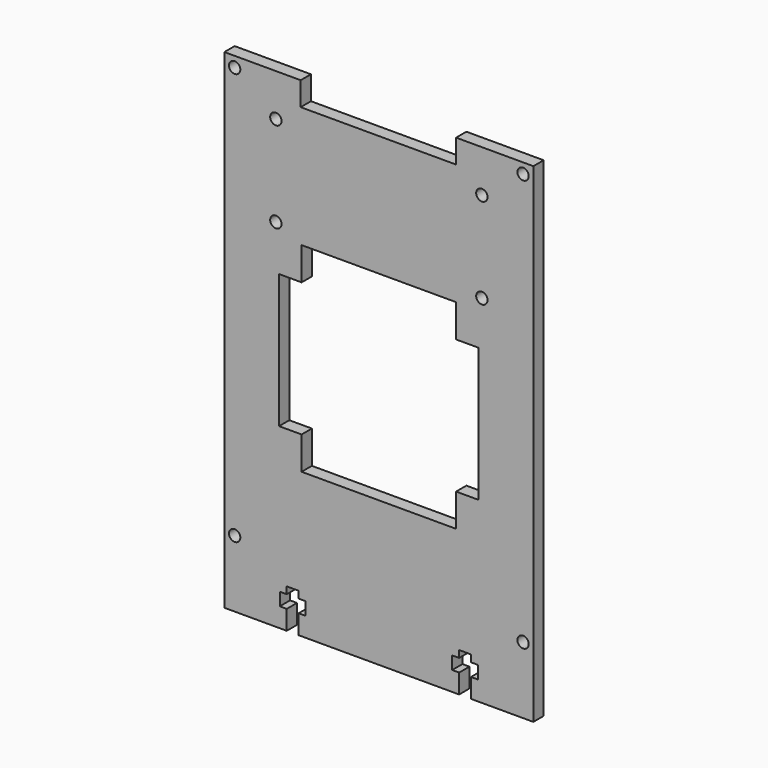
from build123d import *

# Parameters (mm, degrees)
F0_R     = 1.397
F1_DEPTH = 3.175


with BuildPart() as f1:
    # F0 (on Front) → F1 (new body)
    with BuildSketch(Plane.XZ):
        Polygon((38.1, 38.735), (38.1, 60.325), (19.05, 60.325), (19.05, 54.476305), (-19.277798, 54.476305), (-19.277798, 60.325), (-38.1, 60.325), (-38.1, -60.325), (-22.7203, -60.325), (-22.7203, -55.5625), (-24.4348, -55.5625), (-24.4348, -52.3875), (-22.7203, -52.3875), (-22.7203, -50.673), (-19.7993, -50.673), (-19.7993, -52.3875), (-18.0848, -52.3875), (-18.0848, -55.5625), (-19.7993, -55.5625), (-19.7993, -60.325), (19.7993, -60.325), (19.7993, -55.5625), (18.0848, -55.5625), (18.0848, -52.3875), (19.7993, -52.3875), (19.7993, -50.673), (22.7203, -50.673), (22.7203, -52.3875), (24.4348, -52.3875), (24.4348, -55.5625), (22.7203, -55.5625), (22.7203, -60.325), (38.1, -60.325), align=None)
        with Locations((-35.56, -43.815)):
            Circle(F0_R, mode=Mode.SUBTRACT)
        with Locations((35.56, -43.815)):
            Circle(F0_R, mode=Mode.SUBTRACT)
        with Locations((-25.4, 27.559)):
            Circle(F0_R, mode=Mode.SUBTRACT)
        with Locations((-35.56, 57.785)):
            Circle(F0_R, mode=Mode.SUBTRACT)
        with Locations((-25.4, 49.911)):
            Circle(F0_R, mode=Mode.SUBTRACT)
        Polygon((-19.05, 24.60625), (19.05, 24.60625), (19.05, 16.51), (24.60625, 16.51), (24.60625, -16.51), (19.05, -16.51), (19.05, -24.60625), (-19.05, -24.60625), (-19.05, -16.51), (-24.60625, -16.51), (-24.60625, 16.51), (-19.05, 16.51), align=None, mode=Mode.SUBTRACT)
        with Locations((25.4, 27.559)):
            Circle(F0_R, mode=Mode.SUBTRACT)
        with Locations((25.4, 49.911)):
            Circle(F0_R, mode=Mode.SUBTRACT)
        with Locations((35.56, 57.785)):
            Circle(F0_R, mode=Mode.SUBTRACT)
    extrude(amount=F1_DEPTH)


solid = f1.part
